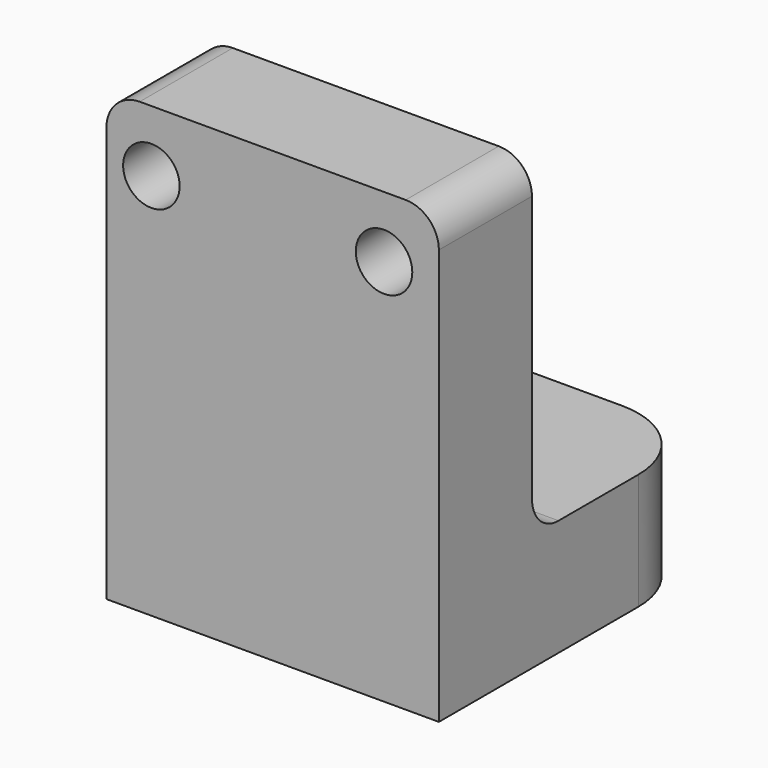
from build123d import *

# Parameters (mm, degrees)
F0_W     = 20
F0_H     = 20
F0_R     = 2.2
F1_DEPTH = 7
F2_W     = 20
F2_H     = 7
F3_DEPTH = 27
F4_R     = 1.7
F5_DEPTH = 7
F6_R     = 5
F7_R     = 2


with BuildPart() as f1:
    # F0 (on Top) → F1 (new body)
    with BuildSketch(Plane.XY):
        with Locations((10, 10)):
            Rectangle(F0_W, F0_H)
        with Locations((10, 13.5)):
            Circle(F0_R, mode=Mode.SUBTRACT)
    extrude(amount=F1_DEPTH)

    # F2 (on Top) → F3 (join)
    with BuildSketch(Plane.XY):
        with Locations((10, 3.5)):
            Rectangle(F2_W, F2_H)
    extrude(amount=F3_DEPTH)

    # F4 (on face) → F5 (cut, through all)
    with BuildSketch(Plane.XZ):
        with Locations((2.7, 23.3)):
            Circle(F4_R)
        with Locations((16.7, 23.3)):
            Circle(F4_R)
    extrude(amount=-F5_DEPTH, mode=Mode.SUBTRACT)

    # F6
    f6_edges = [f1.edges().sort_by_distance(p)[0] for p in [
        (0, 20, 3.5),
        (20, 20, 3.5),
    ]]
    fillet(f6_edges, radius=F6_R)

    # F7
    f7_edges = [f1.edges().sort_by_distance(p)[0] for p in [
        (0, 3.5, 27),
        (20, 3.5, 27),
        (10, 7, 7),
    ]]
    fillet(f7_edges, radius=F7_R)


solid = f1.part
